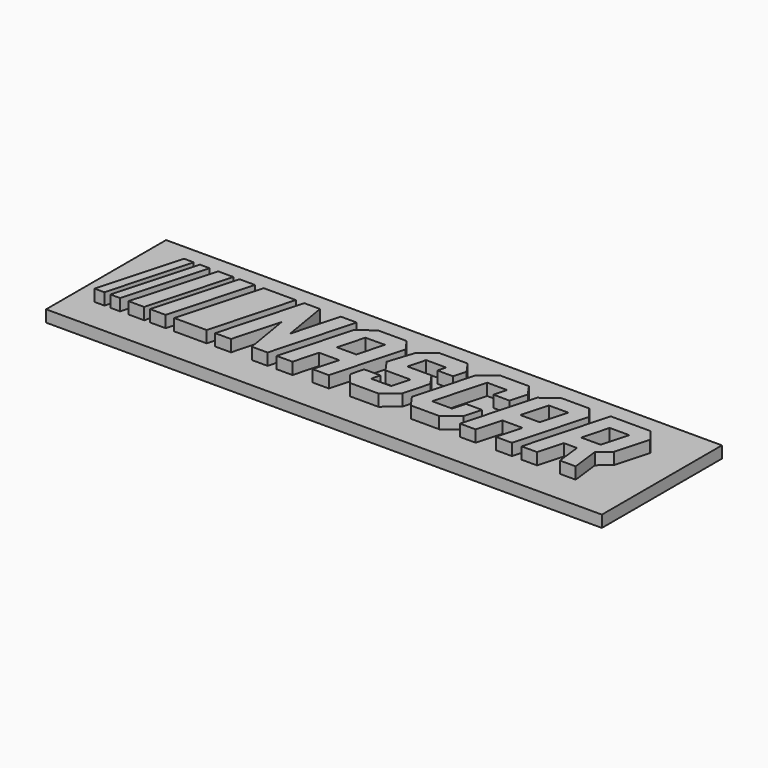
from build123d import *

# Parameters (mm, degrees)
F1_DEPTH = 5
F2_DEPTH = 2.5


with BuildPart() as f1:
    # F0 (on Top) → F1 (new body)
    with BuildSketch(Plane.XY):
        Polygon((-49.2034, 10.045485), (-51.250871, 10.045345), (-56.162401, -7.650592), (-54.064158, -7.650448), align=None)
        Polygon((-45.807145, 10.045556), (-47.863416, 10.045415), (-52.789451, -7.650734), (-50.727136, -7.650592), align=None)
        Polygon((-40.753716, 10.045567), (-43.99753, 10.045345), (-48.926663, -7.650962), (-45.59046, -7.650734), align=None)
        Polygon((-36.174727, 10.045567), (-39.418541, 10.045345), (-44.354538, -7.650964), (-40.998433, -7.650734), align=None)
        Polygon((-27.458231, 10.045924), (-34.277521, 10.045456), (-39.19874, -7.651208), (-32.282034, -7.650734), align=None)
        Polygon((-22.304766, 10.045345), (-25.653705, 10.045345), (-30.47748, -7.651208), (-27.104919, -7.650977), (-24.35805, 2.426216), (-22.676259, -7.651208), (-19.323887, -7.650978), (-14.500175, 10.045345), (-17.893754, 10.045112), (-20.631878, 0), align=None)
        Polygon((-3.862081, 10.045345), (-9.953923, 10.045345), (-13.200429, 7.628167), (-17.36526, -7.650978), (-14.020877, -7.650749), (-12.575684, -2.348898), (-8.290269, -2.348605), (-9.735542, -7.650749), (-6.272452, -7.650511), (-2.113567, 7.606821), align=None)
        Polygon((-11.498777, 1.018861), (-9.953923, 6.686329), (-5.810712, 6.716004), (-7.363578, 1.019144), align=None, mode=Mode.SUBTRACT)
        Polygon((9.139686, 10.045345), (2.935865, 10.045345), (0, 7.606821), (-1.782248, 2.113893), (0, -0.408368), (5.309757, -0.408004), (4.264527, -4.242546), (0, -4.242838), (0.516335, -2.348605), (-2.969201, -2.348844), (-3.724598, -5.120102), (-1.782248, -7.651208), (4.264527, -7.650793), (7.352419, -5.120102), (8.872584, 0.456793), (7.077943, 2.956061), (1.962685, 2.95571), (2.979587, 6.686329), (7.252611, 6.686622), (6.776309, 4.939256), (10.12214, 4.939485), (10.84921, 7.606821), align=None)
        Polygon((22.175291, 10.045345), (16.056074, 10.045345), (12.866741, 7.606821), (9.397602, -5.120102), (11.185807, -7.650793), (17.242279, -7.650378), (20.430617, -5.120102), (21.418843, -1.494685), (17.982534, -1.49492), (17.233578, -4.242546), (12.99736, -4.242836), (15.976462, 6.686329), (20.223952, 6.686621), (19.482193, 3.965394), (22.905843, 3.965629), (23.898369, 7.606821), align=None)
        Polygon((35.030732, 10.045456), (29.001821, 10.045345), (25.812488, 7.606821), (21.653526, -7.650793), (25.002002, -7.650564), (26.447225, -2.348605), (30.749238, -2.34831), (29.303873, -7.650793), (32.736384, -7.650558), (36.895282, 7.606821), align=None)
        Polygon((29.104839, 6.686329), (33.239961, 6.686329), (31.695184, 1.019144), (27.559985, 1.018861), align=None, mode=Mode.SUBTRACT)
        Polygon((48.101758, 10.045456), (39.592214, 10.045345), (34.768552, -7.650793), (38.07166, -7.650567), (39.516883, -2.348605), (42.331091, -2.348412), (42.939585, -7.651208), (46.291957, -7.650978), (45.56239, -1.591272), (48.017334, 0.456793), (49.966308, 7.606821), align=None)
        Polygon((40.533048, 1.018861), (42.058583, 6.686329), (46.213101, 6.686614), (44.668246, 1.019144), align=None, mode=Mode.SUBTRACT)
    extrude(amount=F1_DEPTH)


with BuildPart() as f2:
    # F0 (on Top) → F2 (new body)
    with BuildSketch(Plane.XY):
        Polygon((57.556964, 17.196314), (-60.796134, 17.188201), (-60.796134, -14.754552), (57.556964, -14.754552), align=None)
        Polygon((-56.162401, -7.650592), (-51.250871, 10.045345), (-49.2034, 10.045485), (-54.064158, -7.650448), align=None, mode=Mode.SUBTRACT)
        Polygon((-52.789451, -7.650734), (-47.863416, 10.045415), (-45.807145, 10.045556), (-50.727136, -7.650592), align=None, mode=Mode.SUBTRACT)
        Polygon((-48.926663, -7.650962), (-43.99753, 10.045345), (-40.753716, 10.045567), (-45.59046, -7.650734), align=None, mode=Mode.SUBTRACT)
        Polygon((-44.354538, -7.650964), (-39.418541, 10.045345), (-36.174727, 10.045567), (-40.998433, -7.650734), align=None, mode=Mode.SUBTRACT)
        Polygon((-39.19874, -7.651208), (-34.277521, 10.045456), (-27.458231, 10.045924), (-32.282034, -7.650734), align=None, mode=Mode.SUBTRACT)
        Polygon((-30.47748, -7.651208), (-25.653705, 10.045345), (-22.304766, 10.045345), (-20.631878, 0), (-17.893754, 10.045112), (-14.500175, 10.045345), (-19.323887, -7.650978), (-22.676259, -7.651208), (-24.35805, 2.426216), (-27.104919, -7.650977), align=None, mode=Mode.SUBTRACT)
        Polygon((-13.200429, 7.628167), (-9.953923, 10.045345), (-3.862081, 10.045345), (-2.113567, 7.606821), (-6.272452, -7.650511), (-9.735542, -7.650749), (-8.290269, -2.348605), (-12.575684, -2.348898), (-14.020877, -7.650749), (-17.36526, -7.650978), align=None, mode=Mode.SUBTRACT)
        Polygon((0, 7.606821), (2.935865, 10.045345), (9.139686, 10.045345), (10.84921, 7.606821), (10.12214, 4.939485), (6.776309, 4.939256), (7.252611, 6.686622), (2.979587, 6.686329), (1.962685, 2.95571), (7.077943, 2.956061), (8.872584, 0.456793), (7.352419, -5.120102), (4.264527, -7.650793), (-1.782248, -7.651208), (-3.724598, -5.120102), (-2.969201, -2.348844), (0.516335, -2.348605), (0, -4.242838), (4.264527, -4.242546), (5.309757, -0.408004), (0, -0.408368), (-1.782248, 2.113893), align=None, mode=Mode.SUBTRACT)
        Polygon((12.866741, 7.606821), (16.056074, 10.045345), (22.175291, 10.045345), (23.898369, 7.606821), (22.905843, 3.965629), (19.482193, 3.965394), (20.223952, 6.686621), (15.976462, 6.686329), (12.99736, -4.242836), (17.233578, -4.242546), (17.982534, -1.49492), (21.418843, -1.494685), (20.430617, -5.120102), (17.242279, -7.650378), (11.185807, -7.650793), (9.397602, -5.120102), align=None, mode=Mode.SUBTRACT)
        Polygon((25.812488, 7.606821), (29.001821, 10.045345), (35.030732, 10.045456), (36.895282, 7.606821), (32.736384, -7.650558), (29.303873, -7.650793), (30.749238, -2.34831), (26.447225, -2.348605), (25.002002, -7.650564), (21.653526, -7.650793), align=None, mode=Mode.SUBTRACT)
        Polygon((34.768552, -7.650793), (39.592214, 10.045345), (48.101758, 10.045456), (49.966308, 7.606821), (48.017334, 0.456793), (45.56239, -1.591272), (46.291957, -7.650978), (42.939585, -7.651208), (42.331091, -2.348412), (39.516883, -2.348605), (38.07166, -7.650567), align=None, mode=Mode.SUBTRACT)
    extrude(amount=F2_DEPTH)


solid = Compound([f1.part, f2.part])
